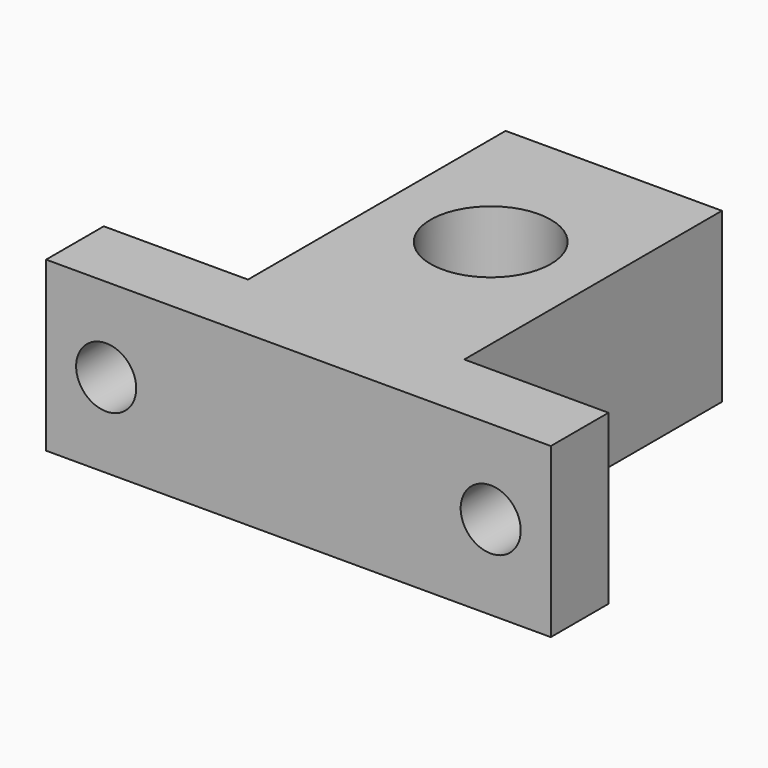
from build123d import *

# Parameters (mm, degrees)
F0_W     = 42
F0_H     = 32.8
F0_R     = 5
F1_DEPTH = 14
F2_W     = 12
F2_H     = 26.8
F3_DEPTH = 14
F4_R     = 2.5
F5_DEPTH = 25.4


with BuildPart() as f1:
    # F0 (on Top) → F1 (new body)
    with BuildSketch(Plane.XY):
        with Locations((21, 16.4)):
            Rectangle(F0_W, F0_H)
        with Locations((21, 20)):
            Circle(F0_R, mode=Mode.SUBTRACT)
    extrude(amount=F1_DEPTH)

    # F2 (on face) → F3 (cut)
    with BuildSketch(Plane.XY.offset(14)):
        with Locations((6, 19.4)):
            Rectangle(F2_W, F2_H)
        with Locations((36, 19.4)):
            Rectangle(F2_W, F2_H)
    extrude(amount=-F3_DEPTH, mode=Mode.SUBTRACT)

    # F4 (on face) → F5 (cut)
    with BuildSketch(Plane.XZ):
        with Locations((5, 7)):
            Circle(F4_R)
        with Locations((37, 7)):
            Circle(F4_R)
    extrude(amount=-F5_DEPTH, mode=Mode.SUBTRACT)


solid = f1.part
